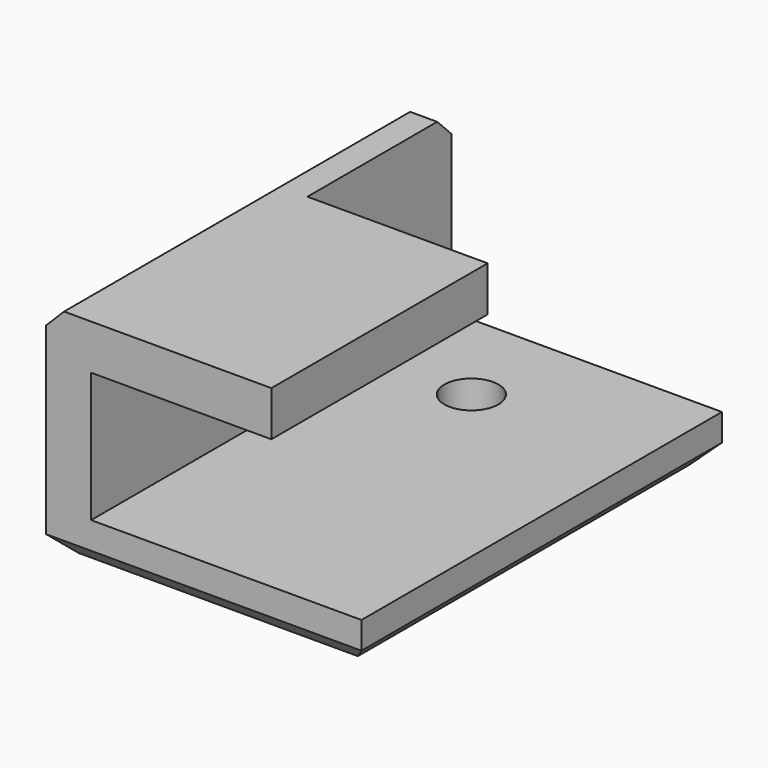
from build123d import *

# Parameters (mm, degrees)
F1_DEPTH = 25
F2_R     = 1.5
F3_DEPTH = 25
F4_W     = 10
F4_H     = 10
F4_R     = 1.5
F5_DEPTH = 5
F6_SIZE  = 1
F7_SIZE  = 1


with BuildPart() as f1:
    # F0 (on Front) → F1 (new body)
    with BuildSketch(Plane.XZ):
        Polygon((0, -3.6), (0, 3.6), (10, 3.6), (10, 6.1), (-2.5, 6.1), (-2.5, -6.1), (15, -6.1), (15, -3.6), align=None)
    extrude(amount=F1_DEPTH)

    # F2 (on face) → F3 (cut)
    with BuildSketch(Plane.XY.offset(6.1)):
        with Locations((5.5, -5.5)):
            Circle(F2_R)
    extrude(amount=-F3_DEPTH, mode=Mode.SUBTRACT)

    # F4 (on face) → F5 (cut)
    with BuildSketch(Plane.XY.offset(6.1)):
        with Locations((5, -5)):
            Rectangle(F4_W, F4_H)
        with Locations((5.5, -5.5)):
            Circle(F4_R, mode=Mode.SUBTRACT)
    extrude(amount=-F5_DEPTH, mode=Mode.SUBTRACT)

    # F6
    f6_edges = [f1.edges().sort_by_distance(p)[0] for p in [
        (-2.5, -12.5, 6.1),
        (-2.5, -12.5, -6.1),
        (15, -12.5, -6.1),
        (6.25, -25, -6.1),
        (6.25, 0, -6.1),
        (-2.5, 0, 0),
    ]]
    chamfer(f6_edges, length=F6_SIZE)

    # F7
    f7_edges = [f1.edges().sort_by_distance(p)[0] for p in [
        (-0.75, 0, 6.1),
    ]]
    chamfer(f7_edges, length=F7_SIZE)


solid = f1.part
